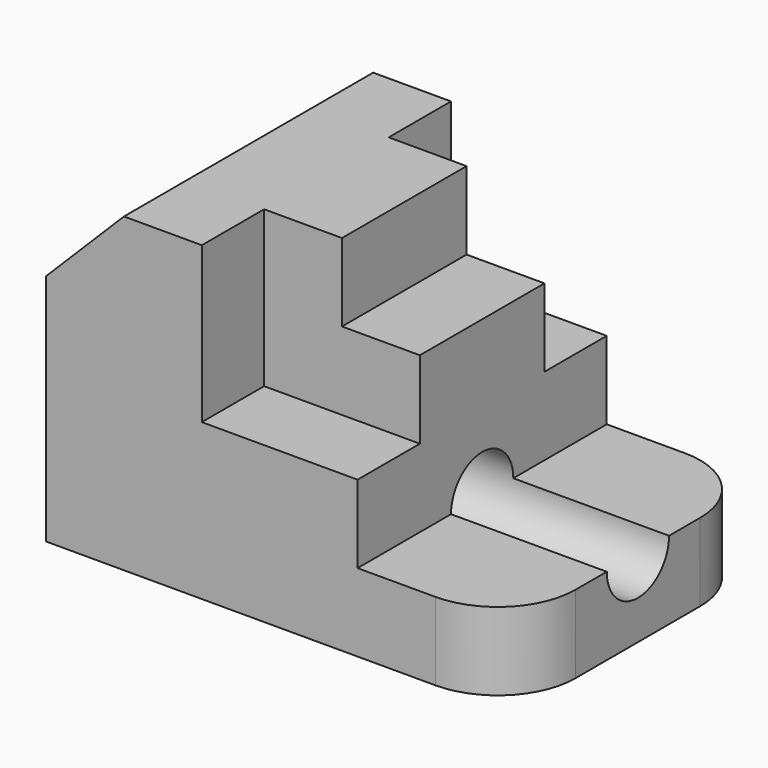
from build123d import *

# Parameters (mm, degrees)
F1_DEPTH  = 50.8
F2_DEPTH  = 50.8
F3_W      = 12.7
F3_H      = 12.7
F4_DEPTH  = 25.4
F5_W      = 12.7
F5_H      = 12.7
F6_DEPTH  = 25.4
F7_W      = 12.7
F7_H      = 12.7
F8_DEPTH  = 12.7
F9_R      = 12.7
F11_DEPTH = 129.55841


with BuildPart() as f1:
    # F0 (on Front) → F1 (new body)
    with BuildSketch(Plane.XZ):
        Polygon((0, 38.1), (0, 0), (76.2, 0), (76.2, 12.7), (50.8, 12.7), (50.8, 25.4), (25.4, 25.4), (25.4, 50.8), (12.7, 50.8), align=None)
    extrude(amount=-F1_DEPTH)

    # F0 (on Front) → F2 (join)
    with BuildSketch(Plane.XZ):
        Polygon((38.1, 50.8), (25.4, 50.8), (25.4, 25.4), (50.8, 25.4), (50.8, 38.1), (38.1, 38.1), align=None)
    extrude(amount=-F2_DEPTH)

    # F3 (on face) → F4 (cut)
    with BuildSketch(Plane.XY.offset(50.8)):
        with Locations((31.75, 6.35)):
            Rectangle(F3_W, F3_H)
    extrude(amount=-F4_DEPTH, mode=Mode.SUBTRACT)

    # F5 (on face) → F6 (cut)
    with BuildSketch(Plane.XY.offset(50.8)):
        with Locations((31.75, 44.45)):
            Rectangle(F5_W, F5_H)
    extrude(amount=-F6_DEPTH, mode=Mode.SUBTRACT)

    # F7 (on face) → F8 (cut)
    with BuildSketch(Plane.XY.offset(38.1)):
        with Locations((44.45, 6.35)):
            Rectangle(F7_W, F7_H)
        with Locations((44.45, 44.45)):
            Rectangle(F7_W, F7_H)
    extrude(amount=-F8_DEPTH, mode=Mode.SUBTRACT)

    # F9
    f9_edges = [f1.edges().sort_by_distance(p)[0] for p in [
        (76.2, 0, 6.35),
        (76.2, 50.8, 6.35),
    ]]
    fillet(f9_edges, radius=F9_R)

    # F10 (on face) → F11 (cut, symmetric)
    with BuildSketch(Plane.YZ.offset(50.8)):
        with BuildLine():
            Line((19.05, 12.7), (31.75, 12.7))
            ThreePointArc((31.75, 12.7), (25.4, 19.05), (19.05, 12.7))
        make_face()
        with BuildLine():
            ThreePointArc((19.05, 12.7), (25.4, 6.35), (31.75, 12.7))
            Line((31.75, 12.7), (19.05, 12.7))
        make_face()
    extrude(amount=F11_DEPTH, both=True, mode=Mode.SUBTRACT)


solid = f1.part
